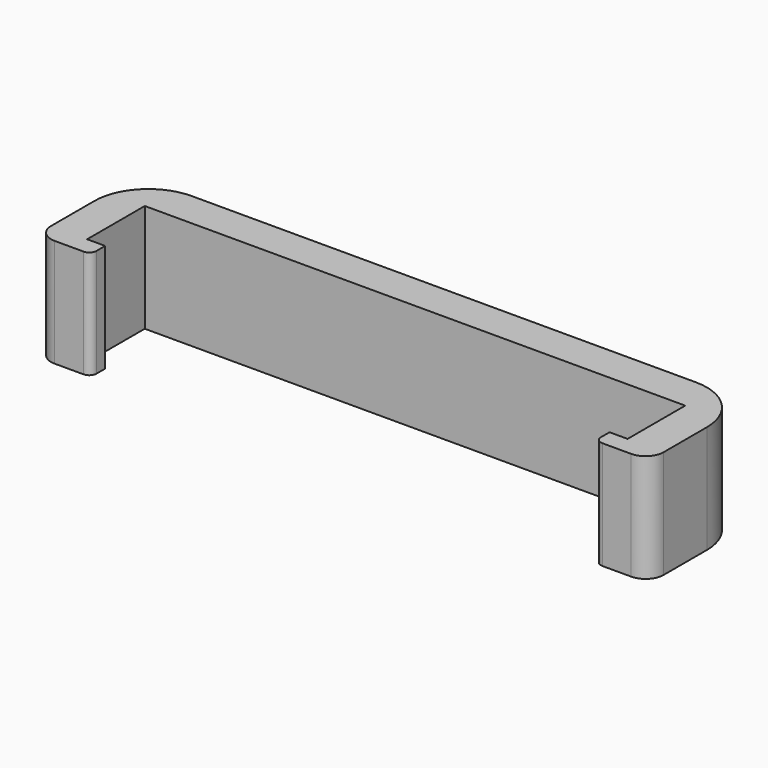
from build123d import *

# Parameters (mm, degrees)
F1_DEPTH = 3


with BuildPart() as f1:
    # F0 (on Top) → F1 (new body)
    with BuildSketch(Plane.XY):
        with BuildLine():
            Line((-7.5, 0), (0, 0))
            Line((0, 0), (7.5, 0))
            Line((7.5, 0), (7.5, -2))
            Line((7.5, -2), (7, -2))
            Line((7, -2), (7, -2.3))
            ThreePointArc((7, -2.3), (7.058579, -2.441421), (7.2, -2.5))
            Line((7.2, -2.5), (7.5, -2.5))
            Line((7.5, -2.5), (8, -2.5))
            ThreePointArc((8, -2.5), (8.353553, -2.353553), (8.5, -2))
            Line((8.5, -2), (8.5, -0.5))
            ThreePointArc((8.5, -0.5), (8.06066, 0.56066), (7, 1))
            Line((7, 1), (0, 1))
            Line((0, 1), (-7, 1))
            ThreePointArc((-7, 1), (-8.06066, 0.56066), (-8.5, -0.5))
            Line((-8.5, -0.5), (-8.5, -2))
            ThreePointArc((-8.5, -2), (-8.353553, -2.353553), (-8, -2.5))
            Line((-8, -2.5), (-7.5, -2.5))
            Line((-7.5, -2.5), (-7.2, -2.5))
            ThreePointArc((-7.2, -2.5), (-7.058579, -2.441421), (-7, -2.3))
            Line((-7, -2.3), (-7, -2))
            Line((-7, -2), (-7.5, -2))
            Line((-7.5, -2), (-7.5, 0))
        make_face()
    extrude(amount=F1_DEPTH)


solid = f1.part
